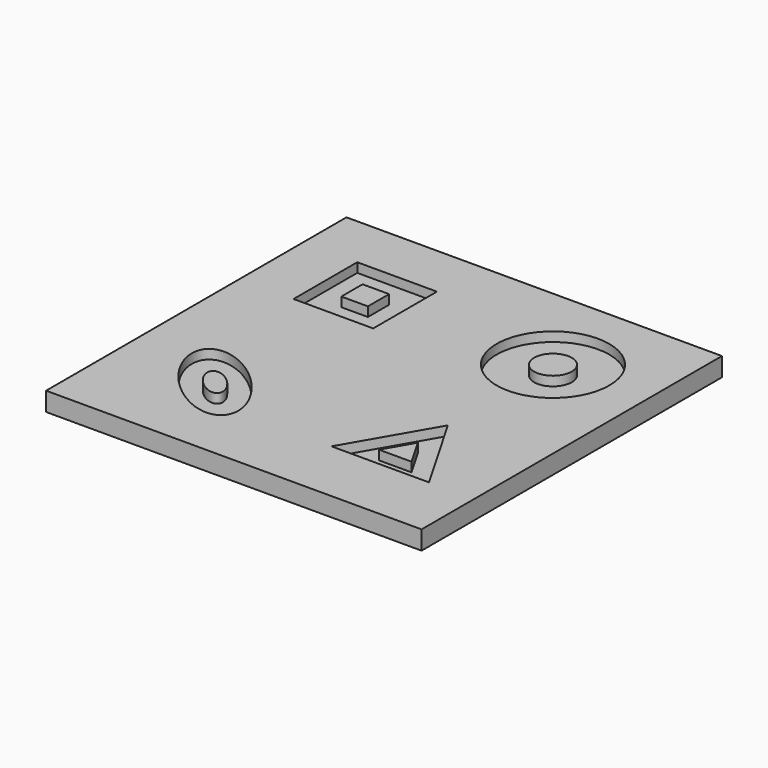
from build123d import *

# Parameters (mm, degrees)
SKETCH_W      = 200
SKETCH_H      = 200
PAD_DEPTH     = 10
SKETCH001_R   = 30
SKETCH001_R_2 = 10
SKETCH001_W   = 42.426406
SKETCH001_H   = 42.426406
SKETCH001_W_2 = 14.142136
SKETCH001_H_2 = 14.142136
POCKET_DEPTH  = 5


with BuildPart() as part:
    # Sketch → Pad (new body)
    with BuildSketch(Plane.XY):
        Rectangle(SKETCH_W, SKETCH_H)
    extrude(amount=PAD_DEPTH)

    # Sketch001 (on Face6 of Pad) → Pocket (cut)
    with BuildSketch(Plane.XY.offset(10)):
        with Locations((50, 50)):
            Circle(SKETCH001_R)
        with Locations((50, 50)):
            Circle(SKETCH001_R_2, mode=Mode.SUBTRACT)
        with BuildLine():
            add(Edge.make_bspline(
                [(-28.786797, -71.213203), (-10.415623, -52.84203), (-51.421015, -30.207812), (-92.426407, -7.573593), (-69.792188, -48.578985), (-47.15797, -89.584377), (-28.786797, -71.213203)],
                knots=[0, 0, 0, 2.094395, 2.094395, 4.18879, 4.18879, 6.283185, 6.283185, 6.283185], degree=2, weights=[1, 0.5, 1, 0.5, 1, 0.5, 1]))
        make_face()
        with BuildLine():
            add(Edge.make_bspline(
                [(-42.928932, -57.071068), (-36.805208, -50.947343), (-50.473672, -43.402604), (-64.142136, -35.857864), (-56.597396, -49.526328), (-49.052657, -63.194792), (-42.928932, -57.071068)],
                knots=[0, 0, 0, 2.094395, 2.094395, 4.18879, 4.18879, 6.283185, 6.283185, 6.283185], degree=2, weights=[1, 0.5, 1, 0.5, 1, 0.5, 1]))
        make_face(mode=Mode.SUBTRACT)
        Polygon((75.980762, -65), (50, -20), (24.019238, -65), align=None)
        Polygon((58.660254, -55), (50, -40), (41.339746, -55), align=None, mode=Mode.SUBTRACT)
        with Locations((-50, 50)):
            Rectangle(SKETCH001_W, SKETCH001_H)
        with Locations((-50, 50)):
            Rectangle(SKETCH001_W_2, SKETCH001_H_2, mode=Mode.SUBTRACT)
    extrude(amount=-POCKET_DEPTH, mode=Mode.SUBTRACT)


solid = part.part
